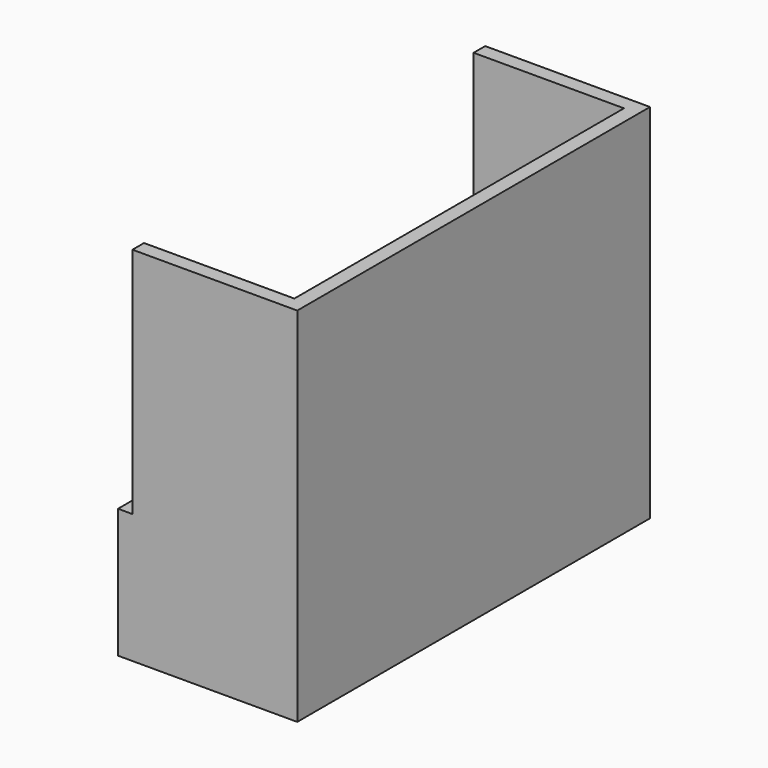
from build123d import *

# Parameters (mm, degrees)
F1_DEPTH = 870
F2_DEPTH = 2480
F0_W     = 1040
F0_H     = 2850
F3_DEPTH = 25


with BuildPart() as f1:
    # F0 (on Top) → F1 (new body)
    with BuildSketch(Plane.XY):
        Polygon((-520, -1525), (-520, -1425), (-520, 1425), (-520, 1525), (-620, 1525), (-620, -1525), align=None)
    extrude(amount=F1_DEPTH)

    # F0 (on Top) → F2 (join)
    with BuildSketch(Plane.XY):
        Polygon((520, 1425), (520, -1425), (-520, -1425), (-520, -1525), (620, -1525), (620, 1525), (-520, 1525), (-520, 1425), align=None)
    extrude(amount=F2_DEPTH)

    # F0 (on Top) → F3 (join)
    with BuildSketch(Plane.XY):
        Rectangle(F0_W, F0_H)
        Polygon((-520, -1525), (-520, -1425), (-520, 1425), (-520, 1525), (-620, 1525), (-620, -1525), align=None)
        Polygon((520, 1425), (520, -1425), (-520, -1425), (-520, -1525), (620, -1525), (620, 1525), (-520, 1525), (-520, 1425), align=None)
    extrude(amount=-F3_DEPTH)


solid = f1.part
